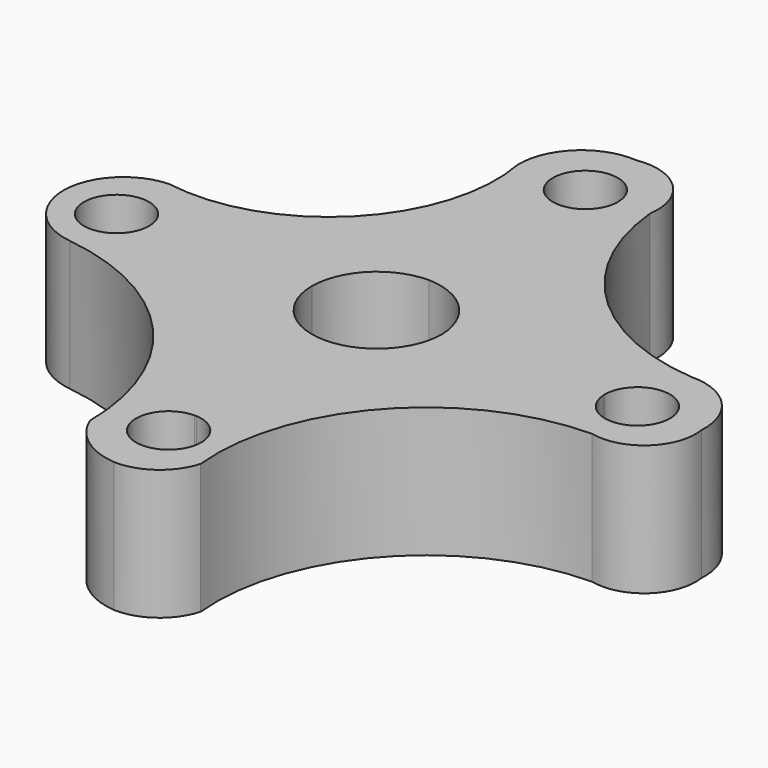
from build123d import *

# Parameters (mm, degrees)
F0_R     = 6.35
F1_DEPTH = 25.4
F3_DEPTH = 25.4


with BuildPart() as f1:
    # F0 (on Top) → F1 (new body)
    with BuildSketch(Plane.XY):
        with BuildLine():
            ThreePointArc((-50.7380515337, -11.37116272), (-22.7102062847, -26.2127233144), (-11.3693960011, -55.8305904269))
            ThreePointArc((-11.3693960011, -55.8305904269), (-6.8397429527, -61.5674028428), (0, -64.1455203295))
            ThreePointArc((0, -64.1455203295), (6.695783126, -62.0921535044), (10.6906248257, -56.3396699727))
            ThreePointArc((10.6906248257, -56.3396699727), (20.9716358365, -24.9529657184), (51.0774329305, -11.37116272))
            ThreePointArc((51.0774329305, -11.37116272), (60.2107371644, -8.9351514625), (63.2952898741, 0))
            ThreePointArc((63.2952898741, 0), (59.9828598403, 9.0475953841), (51.0774329305, 12.7251688391))
            ThreePointArc((51.0774329305, 12.7251688391), (24.8743970373, 24.8109146168), (12.557242997, 50.9059727192))
            ThreePointArc((12.557242997, 50.9059727192), (9.4358238509, 60.3001998847), (0, 63.2935240865))
            ThreePointArc((0, 63.2935240865), (-9.376892628, 60.0475990832), (-13.2360132411, 50.9059727192))
            ThreePointArc((-13.2360132411, 50.9059727192), (-22.0366477113, 22.0420807206), (-50.7380515337, 12.7251688391))
            ThreePointArc((-50.7380515337, 12.7251688391), (-59.0669046696, 8.7644395367), (-61.9377531111, 0))
            ThreePointArc((-61.9377531111, 0), (-58.3410010387, -7.6584761646), (-50.7380515337, -11.37116272))
        make_face()
        with BuildLine():
            ThreePointArc((6.35, -50.8), (-4.4901280605, -55.2901280605), (0, -44.45))
            ThreePointArc((0, -44.45), (0.1985345593, -44.4531043786), (0.396875, -44.4624144791))
            ThreePointArc((0.396875, -44.4624144791), (4.6283180665, -46.4524521998), (6.35, -50.8))
        make_face(mode=Mode.SUBTRACT)
        with Locations((-50.8, 0)):
            Circle(F0_R, mode=Mode.SUBTRACT)
        with BuildLine():
            ThreePointArc((0, 12.7), (8.9802561211, 8.9802561211), (12.7, 0))
            ThreePointArc((12.7, 0), (8.9802561211, -8.9802561211), (0, -12.7))
            ThreePointArc((0, -12.7), (-8.9802561211, -8.9802561211), (-12.7, 0))
            ThreePointArc((-12.7, 0), (-8.9802561211, 8.9802561211), (0, 12.7))
        make_face(mode=Mode.SUBTRACT)
        with BuildLine():
            ThreePointArc((6.35, 50.8), (4.4901280605, 46.3098719395), (0, 44.45))
            ThreePointArc((0, 44.45), (-4.4901280605, 55.2901280605), (6.35, 50.8))
        make_face(mode=Mode.SUBTRACT)
        with BuildLine():
            ThreePointArc((44.4624144791, -0.396875), (44.4531043786, -0.1985345593), (44.45, 0))
            ThreePointArc((44.45, 0), (50.8, 6.35), (57.15, 0))
            ThreePointArc((57.15, 0), (50.9985345593, -6.3468956214), (44.4624144791, -0.396875))
        make_face(mode=Mode.SUBTRACT)
        with BuildLine():
            Line((0, 0), (12.7, 0))
            ThreePointArc((12.7, 0), (8.9802561211, 8.9802561211), (0, 12.7))
            Line((0, 12.7), (0, 0))
        make_face()
    extrude(amount=F1_DEPTH)

    # F2 (on face) → F3 (cut)
    with BuildSketch(Plane.XY.offset(25.4)):
        with BuildLine():
            Line((0, 0), (12.7, 0))
            ThreePointArc((12.7, 0), (8.8617720381, 8.8617720381), (0, 12.7))
            Line((0, 12.7), (0, 0))
        make_face()
    extrude(amount=-F3_DEPTH, mode=Mode.SUBTRACT)


solid = f1.part
